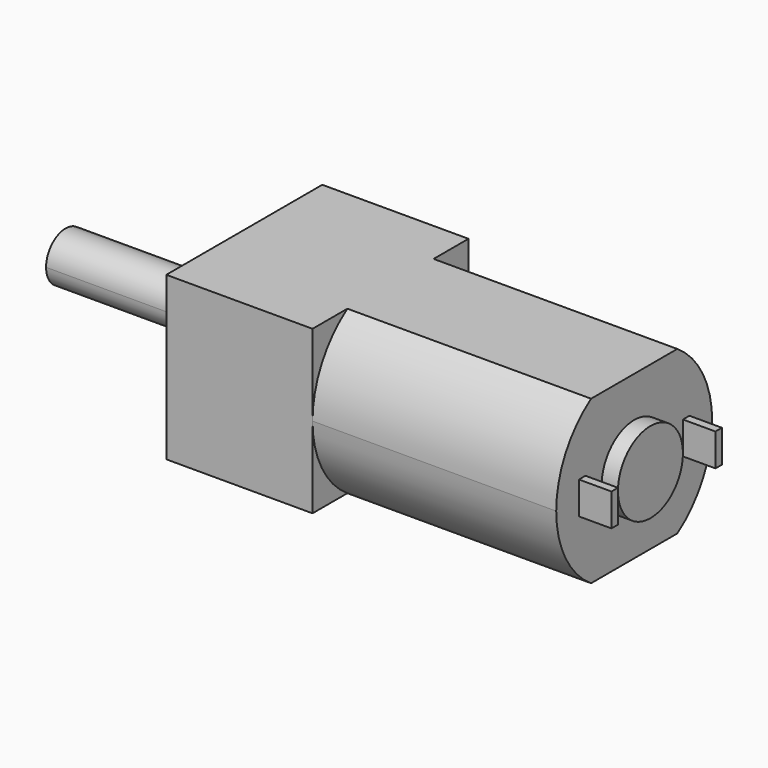
from build123d import *

# Parameters (mm, degrees)
F0_W     = 12
F0_H     = 10
F0_R     = 2
F1_DEPTH = 9
F2_DEPTH = 1
F4_DEPTH = 10
F6_DEPTH = 15
F7_R     = 2.5
F8_DEPTH = 1
F7_W     = 0.5
F7_H     = 2
F9_DEPTH = 2


with BuildPart() as f1:
    # F0 (on Right) → F1 (new body)
    with BuildSketch(Plane.YZ):
        Rectangle(F0_W, F0_H)
        Circle(F0_R, mode=Mode.SUBTRACT)
        Circle(F0_R)
    extrude(amount=F1_DEPTH)

    # F0 (on Right) → F2 (join)
    with BuildSketch(Plane.YZ):
        Circle(F0_R)
    extrude(amount=-F2_DEPTH)

    # F3 (on face) → F4 (join)
    with BuildSketch(Plane(origin=(-1, 0, 0), x_dir=(0, -1, 0), z_dir=(-1, 0, 0))):
        with BuildLine():
            ThreePointArc((-1, -1.118034), (0.612372, -1.369306), (1.5, 0))
            ThreePointArc((1.5, 0), (0.612372, 1.369306), (-1, 1.118034))
            Line((-1, 1.118034), (-1, -1.118034))
        make_face()
    extrude(amount=F4_DEPTH)

    # F5 (on face) → F6 (join)
    with BuildSketch(Plane.YZ.offset(9)):
        with BuildLine():
            Line((3.316625, 5), (-3.316625, 5))
            ThreePointArc((-3.316625, 5), (-5.286764, 2.837274), (-6, 0))
            ThreePointArc((-6, 0), (-5.286764, -2.837274), (-3.316625, -5))
            Line((-3.316625, -5), (3.316625, -5))
            ThreePointArc((3.316625, -5), (5.286764, -2.837274), (6, 0))
            ThreePointArc((6, 0), (5.286764, 2.837274), (3.316625, 5))
        make_face()
    extrude(amount=F6_DEPTH)

    # F7 (on face) → F8 (join)
    with BuildSketch(Plane.YZ.offset(24)):
        Circle(F7_R)
    extrude(amount=F8_DEPTH)

    # F7 (on face) → F9 (join)
    with BuildSketch(Plane.YZ.offset(24)):
        with Locations((-4, 0)):
            Rectangle(F7_W, F7_H)
        with Locations((4, 0)):
            Rectangle(F7_W, F7_H)
    extrude(amount=F9_DEPTH)


solid = f1.part
